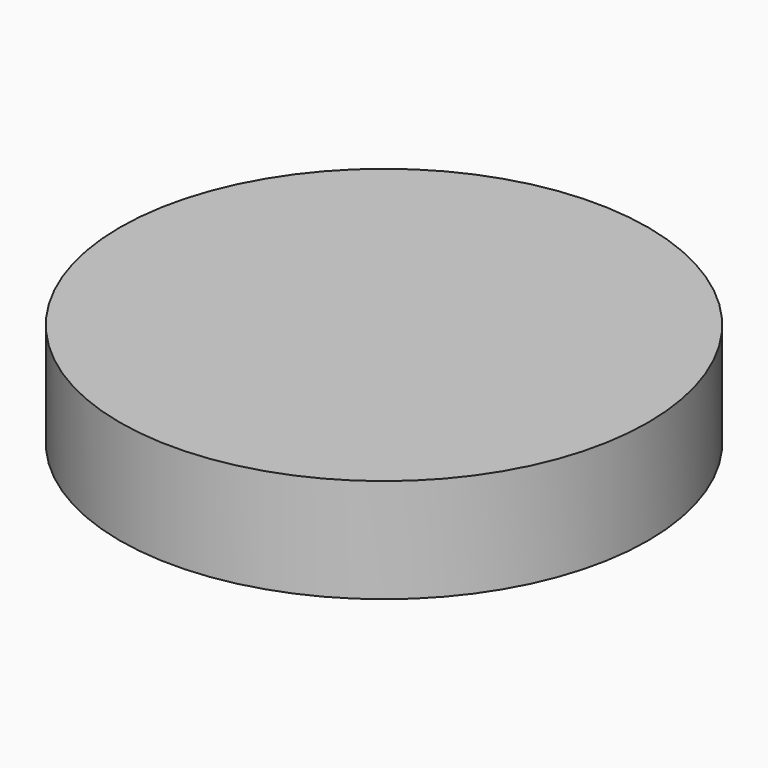
from build123d import *

# Parameters (mm, degrees)
F0_R     = 1.5
F1_DEPTH = 14
F2_W     = 17
F2_H     = 2
F3_DEPTH = 16
F4_W     = 9
F4_H     = 17
F5_DEPTH = 16
F6_R     = 63.5
F7_DEPTH = 25


with BuildPart() as f1:
    # F0 (on Top) → F1 (new body)
    with BuildSketch(Plane.XY):
        with BuildLine():
            Line((15.25, 18), (-15.25, 18))
            ThreePointArc((-15.25, 18), (-17.194544, 17.194544), (-18, 15.25))
            Line((-18, 15.25), (-18, -15.25))
            ThreePointArc((-18, -15.25), (-17.194544, -17.194544), (-15.25, -18))
            Line((-15.25, -18), (15.25, -18))
            ThreePointArc((15.25, -18), (17.194544, -17.194544), (18, -15.25))
            Line((18, -15.25), (18, 15.25))
            ThreePointArc((18, 15.25), (17.194544, 17.194544), (15.25, 18))
        make_face()
        with Locations((-15.25, -15.25)):
            Circle(F0_R, mode=Mode.SUBTRACT)
        with Locations((15.25, -15.25)):
            Circle(F0_R, mode=Mode.SUBTRACT)
        with Locations((-15.25, 15.25)):
            Circle(F0_R, mode=Mode.SUBTRACT)
        with Locations((15.25, 15.25)):
            Circle(F0_R, mode=Mode.SUBTRACT)
    extrude(amount=F1_DEPTH)

    # F2 (on face) → F3 (join)
    with BuildSketch(Plane.YZ.offset(18)):
        with Locations((0, 1)):
            Rectangle(F2_W, F2_H)
    extrude(amount=F3_DEPTH)

    # F4 (on face) → F5 (join)
    with BuildSketch(Plane(origin=(0, 0, 0), x_dir=(1, 0, 0), z_dir=(0, 0, -1))):
        with Locations((29.5, 0)):
            Rectangle(F4_W, F4_H)
    extrude(amount=F5_DEPTH)


with BuildPart() as f7:
    # F6 (on Top) → F7 (new body)
    with BuildSketch(Plane.XY):
        Circle(F6_R)
    extrude(amount=F7_DEPTH)


solid = Compound([f1.part, f7.part])
